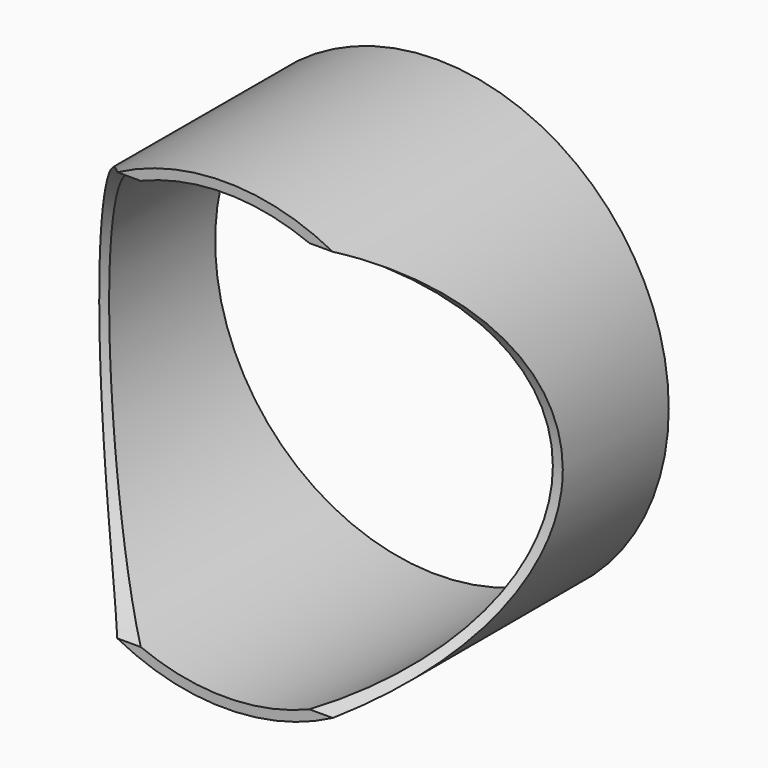
from build123d import *

# Parameters (mm, degrees)
F0_R     = 35
F0_R_2   = 33.5
F1_DEPTH = 20
F2_R     = 34
F3_DEPTH = 40


with BuildPart() as f1:
    # F0 (on Front) → F1 (new body, symmetric)
    with BuildSketch(Plane.XZ):
        Circle(F0_R)
        Circle(F0_R_2, mode=Mode.SUBTRACT)
    extrude(amount=F1_DEPTH, both=True)

    # F2 (on Right) → F3 (cut, symmetric)
    with BuildSketch(Plane.YZ):
        with Locations((-34, 0)):
            Circle(F2_R)
    extrude(amount=F3_DEPTH, both=True, mode=Mode.SUBTRACT)


solid = f1.part
